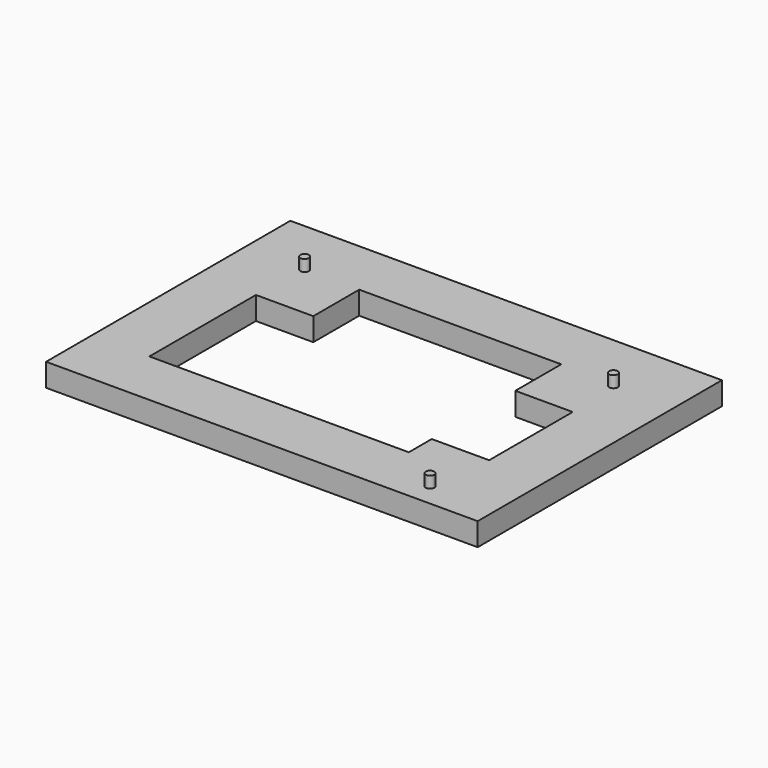
from build123d import *

# Parameters (mm, degrees)
F0_W     = 75.2
F0_H     = 53.2
F1_DEPTH = 4
F2_R     = 0.75
F3_DEPTH = 2
F5_DEPTH = 25


with BuildPart() as f1:
    # F0 (on Top) → F1 (new body)
    with BuildSketch(Plane.XY):
        with Locations((37.6, -26.6)):
            Rectangle(F0_W, F0_H)
    extrude(amount=F1_DEPTH)

    # F2 (on face) → F3 (join)
    with BuildSketch(Plane.XY.offset(4)):
        with Locations((10.5, -10)):
            Circle(F2_R)
        with Locations((63.7, -49.2)):
            Circle(F2_R)
        with Locations((64.7, -10.5)):
            Circle(F2_R)
    extrude(amount=F3_DEPTH)

    # F4 (on face) → F5 (cut)
    with BuildSketch(Plane.XY.offset(4)):
        Polygon((20, -20), (10, -20), (10, -43.2), (55.2, -43.2), (55.2, -38.2), (65.2, -38.2), (65.2, -20), (55.2, -20), (55.2, -10), (20, -10), align=None)
    extrude(amount=-F5_DEPTH, mode=Mode.SUBTRACT)


solid = f1.part
